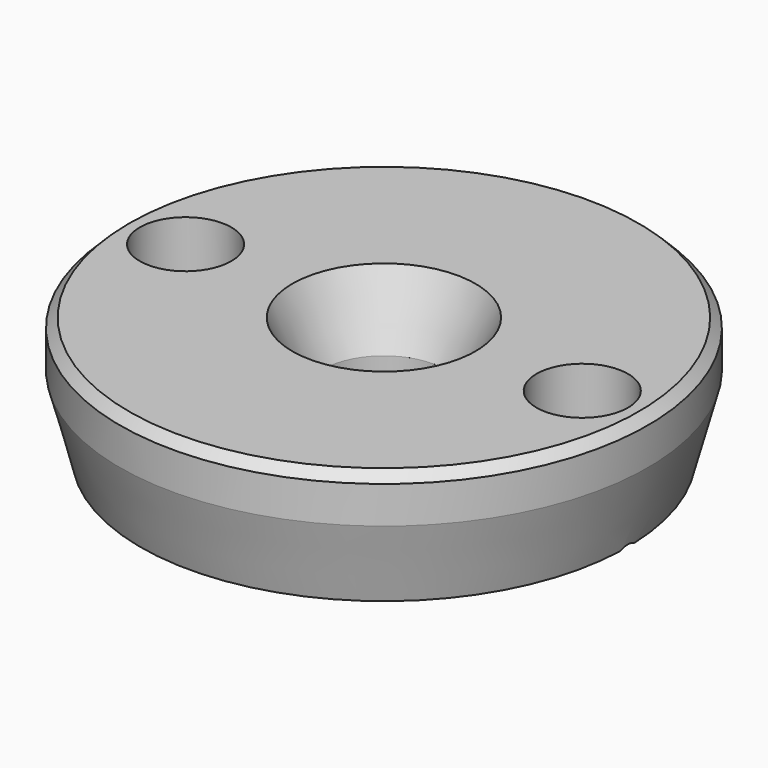
from build123d import *

# Parameters (mm, degrees)
F2_SIZE  = 0.3
F3_R     = 1.5
F4_DEPTH = 80
F5_R     = 1.5
F6_DEPTH = 6.75


with BuildPart() as f1:
    # F0 (on Front) → F1 (revolve)
    with BuildSketch(Plane.XZ):
        Polygon((-3, 53), (-7.65, 53), (-8.65, 53), (-8.65, 51.483571), (-7.975725, 48.967142), (-2, 48.967142), (-2, 50.855493), align=None)
    revolve(axis=Axis((0, 0, 14.86109), (0, 0, -1)))

    # F2
    f2_edges = [f1.edges().sort_by_distance(p)[0] for p in [
        (8.65, 0, 53),
    ]]
    chamfer(f2_edges, length=F2_SIZE)

    # F3 (on Top) → F4 (cut)
    with BuildSketch(Plane.XY):
        with Locations((-6.5, 0)):
            Circle(F3_R)
        with BuildLine():
            ThreePointArc((8, 0), (6.5, 1.5), (5, 0))
            ThreePointArc((5, 0), (6.5, -1.5), (8, 0))
        make_face()
    extrude(amount=F4_DEPTH, mode=Mode.SUBTRACT)

    # F5 (on Right) → F6 (cut, symmetric)
    with BuildSketch(Plane.YZ):
        with Locations((0, 48.971336)):
            Circle(F5_R)
    extrude(amount=F6_DEPTH, both=True, mode=Mode.SUBTRACT)


solid = f1.part
